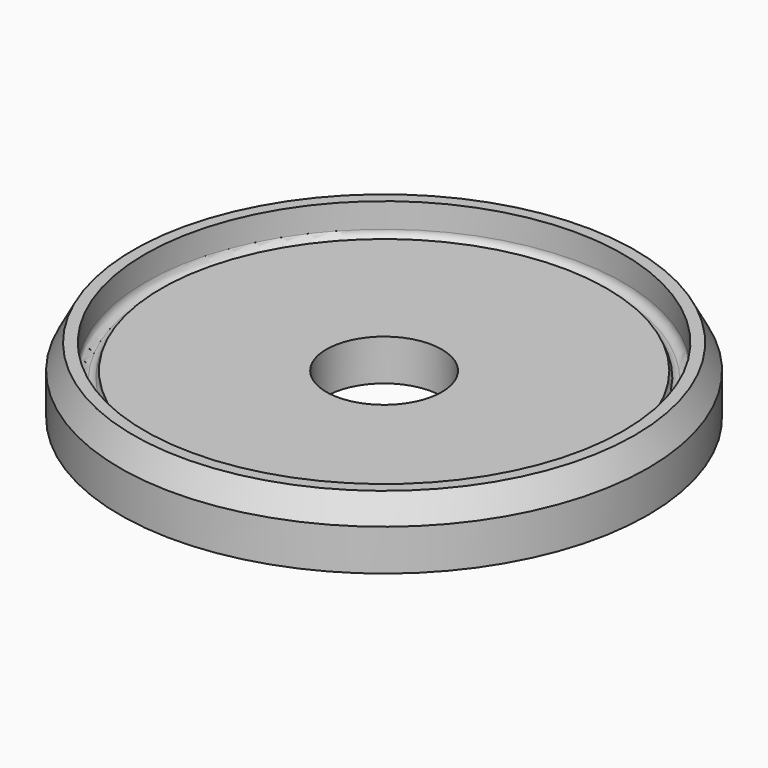
from build123d import *


with BuildPart() as f1:
    # F0 (on Front) → F1 (revolve)
    with BuildSketch(Plane.XZ):
        with BuildLine():
            Line((3.5, 2.5), (3.5, 0))
            Line((3.5, 0), (16, 0))
            Line((16, 0), (16, 2.5))
            Line((16, 2.5), (15.2, 4))
            Line((15.2, 4), (14.5, 4))
            Line((14.5, 4), (14.5, 2.5))
            ThreePointArc((14.5, 2.5), (14.353553, 2.146447), (14, 2))
            ThreePointArc((14, 2), (13.808734, 2.038029), (13.646563, 2.14633))
            ThreePointArc((13.646563, 2.14633), (13.538092, 2.308582), (13.5, 2.5))
            Line((13.5, 2.5), (3.5, 2.5))
        make_face()
    revolve(axis=Axis((0, 0, 2), (0, 0, 1)))


solid = f1.part
